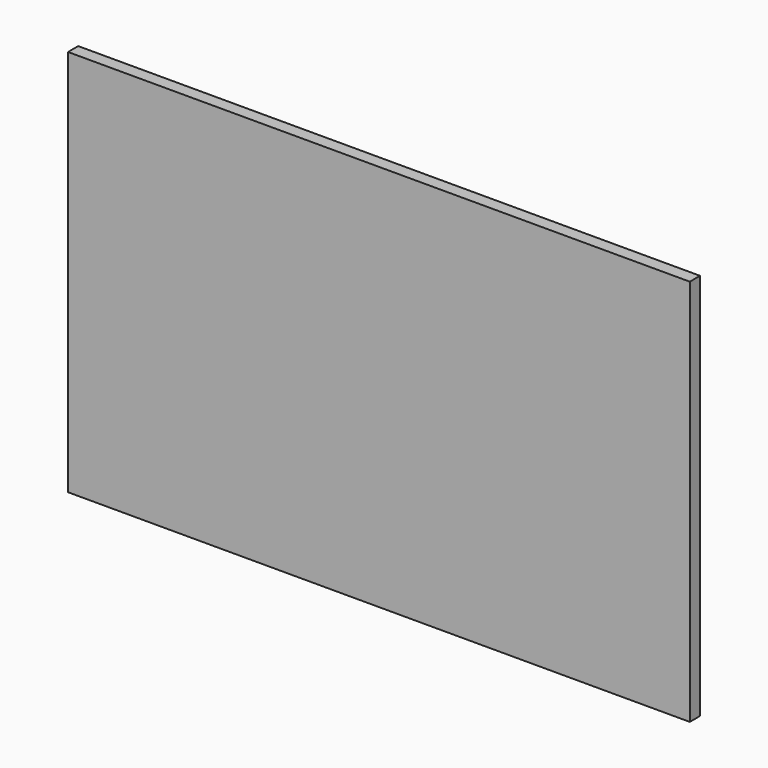
from build123d import *

# Parameters (mm, degrees)
F0_W     = 927.1
F0_H     = 288.925
F1_DEPTH = 9.525


with BuildPart() as f1:
    # F0 (on Front) → F1 (new body, symmetric)
    with BuildSketch(Plane.XZ):
        with Locations((215.6460046741, 144.4625)):
            Rectangle(F0_W, F0_H)
        with Locations((215.6460046741, -144.4625)):
            Rectangle(F0_W, F0_H)
    extrude(amount=F1_DEPTH, both=True)


solid = f1.part
